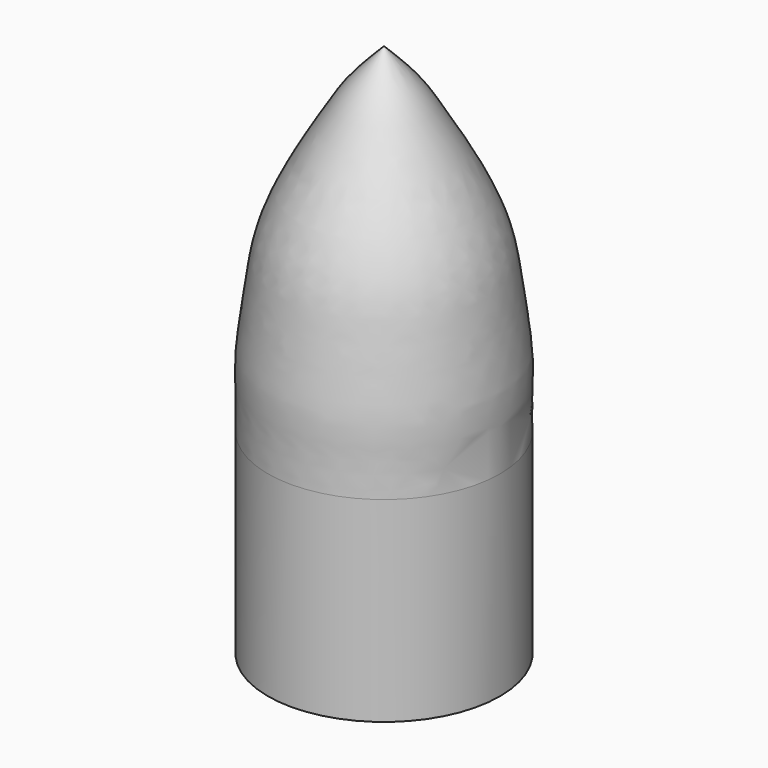
from build123d import *

# Parameters (mm, degrees)
F0_W = 0.8
F0_H = 23.1088660657


with BuildPart() as f1:
    # F0 (on Front) → F1 (revolve)
    with BuildSketch(Plane.XZ):
        with BuildLine():
            Line((-13.7, 23.1088660657), (-12.9, 23.1088660657))
            Line((-12.9, 23.1088660657), (0, 23.1088660657))
            Line((0, 23.1088660657), (0, 63.1088660657))
            add(Edge.make_bspline(
                [(-13.7, 23.1088660657), (-13.6902171476, 24.5601355701), (-13.6593642276, 27.3690994584), (-13.8671230286, 31.0443509858), (-12.8503158354, 37.8066867245), (-12.1392720099, 43.6208074085), (-9.4085415887, 49.8764078635), (-5.6786767031, 56.0489114858), (-3.6545917196, 59.3849932828), (-1.2764589904, 61.8096431568), (0, 63.1088660657)],
                knots=[0, 0, 0, 0, 0.1103859429, 0.2142972783, 0.3538859937, 0.4856706021, 0.6269809199, 0.7710601055, 0.8776196361, 1, 1, 1, 1], degree=3))
        make_face()
        with Locations((-13.3, 11.5544330329)):
            Rectangle(F0_W, F0_H)
    revolve(axis=Axis((0, 0, 33.9172668755), (0, 0, 1)))


solid = f1.part
